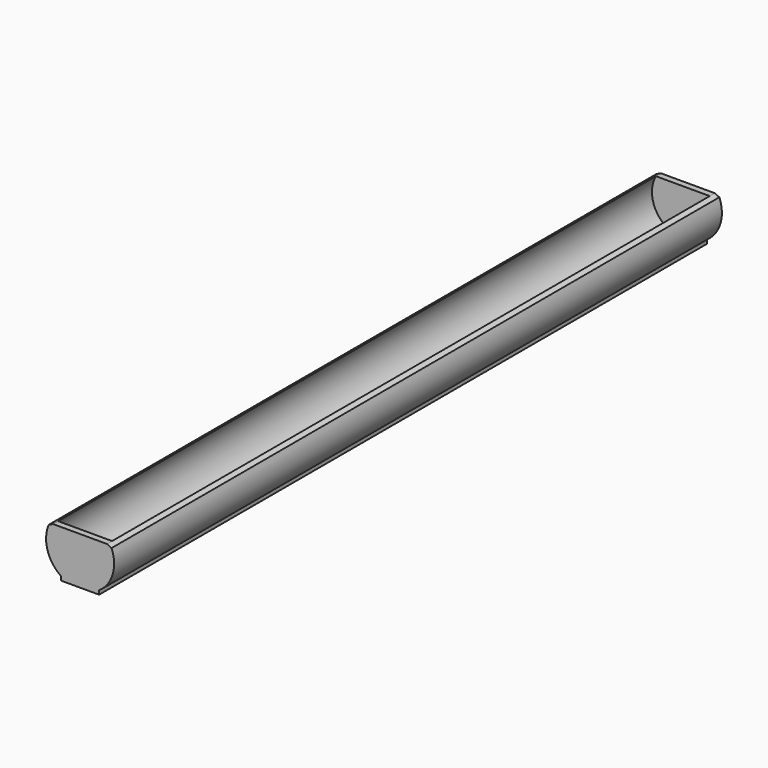
from build123d import *

# Parameters (mm, degrees)
F1_DEPTH = 240
F2_DEPTH = 2
F4_DEPTH = 2


with BuildPart() as f1:
    # F0 (on Front) → F1 (new body)
    with BuildSketch(Plane.XZ):
        with BuildLine():
            ThreePointArc((-6, -8.919781), (-5.280189, -9.363872), (-4.527693, -9.75))
            Line((-4.527693, -9.75), (0, -9.75))
            ThreePointArc((0, -9.75), (-8.415191, -4.924131), (-8.5, 4.776243))
            Line((-8.5, 4.776243), (-9.934369, 4.107408))
            ThreePointArc((-9.934369, 4.107408), (-10.290916, -3.107982), (-6, -8.919781))
        make_face()
        with BuildLine():
            ThreePointArc((8.5, 4.776243), (8.415191, -4.924131), (0, -9.75))
            Line((0, -9.75), (4.527693, -9.75))
            ThreePointArc((4.527693, -9.75), (5.280189, -9.363872), (6, -8.919781))
            ThreePointArc((6, -8.919781), (10.290916, -3.107982), (9.934369, 4.107408))
            Line((9.934369, 4.107408), (8.5, 4.776243))
        make_face()
        with BuildLine():
            Line((0, -9.75), (-4.527693, -9.75))
            ThreePointArc((-4.527693, -9.75), (-5.280189, -9.363872), (-6, -8.919781))
            Line((-6, -8.919781), (-6, -9.75))
            Line((-6, -9.75), (-6, -10.15))
            Line((-6, -10.15), (6, -10.15))
            Line((6, -10.15), (6, -9.75))
            Line((6, -9.75), (6, -8.919781))
            ThreePointArc((6, -8.919781), (5.280189, -9.363872), (4.527693, -9.75))
            Line((4.527693, -9.75), (0, -9.75))
        make_face()
    extrude(amount=F1_DEPTH)

    # F0 (on Front) → F2 (join)
    with BuildSketch(Plane.XZ):
        with BuildLine():
            ThreePointArc((-8.5, 4.776243), (-8.415191, -4.924131), (0, -9.75))
            ThreePointArc((0, -9.75), (8.415191, -4.924131), (8.5, 4.776243))
            Line((8.5, 4.776243), (-8.5, 4.776243))
        make_face()
    extrude(amount=F2_DEPTH)

    # F3 (on face) → F4 (join)
    with BuildSketch(Plane.XZ.offset(240)):
        with BuildLine():
            Line((8.5, 4.776243), (-8.5, 4.776243))
            ThreePointArc((-8.5, 4.776243), (0, -9.75), (8.5, 4.776243))
        make_face()
    extrude(amount=-F4_DEPTH)


solid = f1.part
